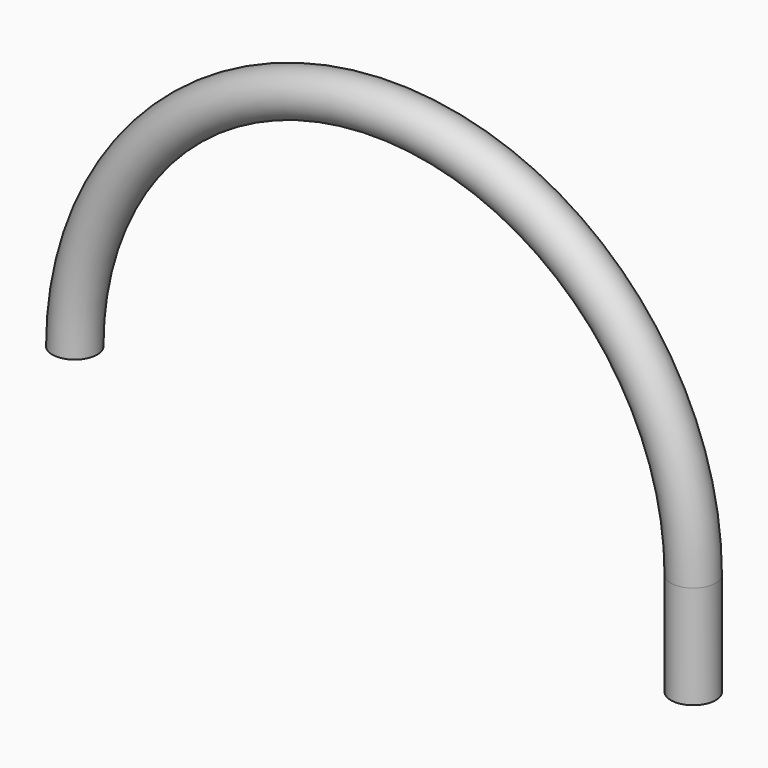
from build123d import *

# Parameters (mm, degrees)
F0_R        = 4.35
F1_DEPTH    = 20
F2_R        = 3.25
F3_DEPTH    = 25
F1_FACE_R   = 4.35
F1_FACE_R_2 = 3.25


with BuildPart() as f1:
    # F0 (on Top) → F1 (new body)
    with BuildSketch(Plane.XY):
        Circle(F0_R)
    extrude(amount=F1_DEPTH)

    # F2 (on face) → F3 (cut)
    with BuildSketch(Plane.XY.offset(20)):
        Circle(F2_R)
    extrude(amount=-F3_DEPTH, mode=Mode.SUBTRACT)

    # F5: sweep along a path in F4
    with BuildLine(Plane.XZ) as f5_path:
        ThreePointArc((0, 20), (-60, 80), (-120, 20))
    # F1_face (on face) → F5 (sweep)
    with BuildSketch(Plane.XY.offset(20)):
        Circle(F1_FACE_R)
        Circle(F1_FACE_R_2, mode=Mode.SUBTRACT)
    sweep(path=f5_path.line)


solid = f1.part
